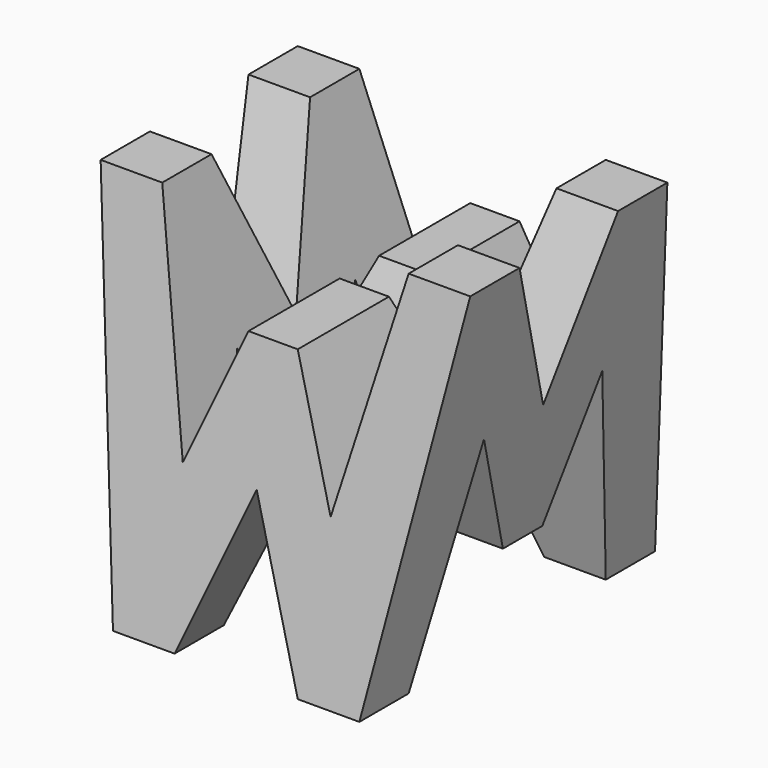
from build123d import *

# Parameters (mm, degrees)
F0_W     = 38.1
F0_H     = 38.1
F1_DEPTH = 38.1
F6_DEPTH = 38.1
F8_DEPTH = 38.1


with BuildPart() as f1:
    # F0 (on Front) → F1 (new body)
    with BuildSketch(Plane.XZ):
        with Locations((19.05, 19.05)):
            Rectangle(F0_W, F0_H)
    extrude(amount=F1_DEPTH)

    # F5 (on offset) → F6 (cut)
    with BuildSketch(Plane.XZ.offset(38.1)):
        Polygon((31.75, 38.1), (6.35, 38.1), (11.43, 15.875), (16.51, 28.575), (21.59, 28.575), (26.67, 15.875), align=None)
        Polygon((0, 0), (6.35, 0), (0, 38.1), align=None)
        Polygon((19.05, 15.875), (12.7, 0), (25.4, 0), align=None)
        Polygon((38.1, 38.1), (31.75, 0), (38.1, 0), align=None)
    extrude(amount=-F6_DEPTH, mode=Mode.SUBTRACT)

    # F7 (on offset) → F8 (cut)
    with BuildSketch(Plane.YZ.offset(38.1)):
        Polygon((-26.67, 22.225), (-31.75, 0), (-6.35, 0), (-11.43, 22.225), (-16.51, 9.525), (-21.59, 9.525), align=None)
        Polygon((-31.75, 38.1), (-38.1, 38.1), (-38.1, 0), align=None)
        Polygon((-6.35, 38.1), (0, 0), (0, 38.1), align=None)
        Polygon((-12.7, 38.1), (-25.4, 38.1), (-19.05, 22.225), align=None)
    extrude(amount=-F8_DEPTH, mode=Mode.SUBTRACT)


solid = f1.part
